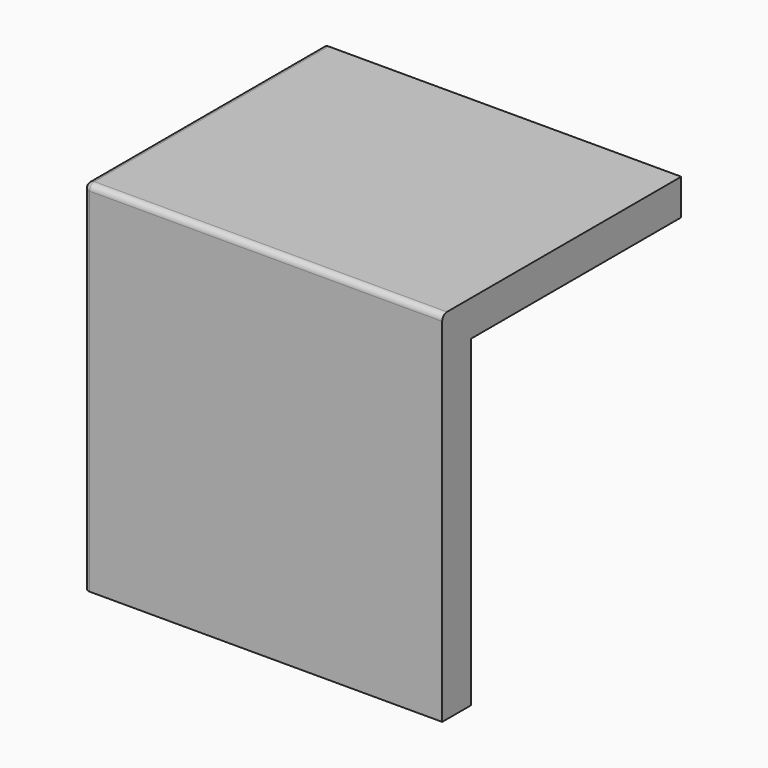
from build123d import *

# Parameters (mm, degrees)
F1_DEPTH = 2.5
F2_DEPTH = 57.5
F3_DEPTH = 3.5
F4_R     = 1


with BuildPart() as f1:
    # F0 (on Top) → F1 (new body)
    with BuildSketch(Plane.XY):
        Polygon((26.914498, 24.649286), (-24.585502, 24.649286), (-28.085502, 24.649286), (-28.085502, -20.350714), (26.914498, -20.350714), (26.914498, -16.850714), align=None)
        Polygon((-24.585502, 27.149286), (-30.585502, 27.149286), (-30.585502, -22.850714), (29.414498, -22.850714), (29.414498, -16.850714), (26.914498, -16.850714), (26.914498, -20.350714), (-28.085502, -20.350714), (-28.085502, 24.649286), (-24.585502, 24.649286), align=None)
        Polygon((29.414498, 27.149286), (-24.585502, 27.149286), (-24.585502, 24.649286), (26.914498, 24.649286), (26.914498, -16.850714), (29.414498, -16.850714), align=None)
    extrude(amount=F1_DEPTH)

    # F0 (on Top) → F2 (join)
    with BuildSketch(Plane.XY):
        Polygon((-24.585502, 27.149286), (-30.585502, 27.149286), (-30.585502, -22.850714), (29.414498, -22.850714), (29.414498, -16.850714), (26.914498, -16.850714), (26.914498, -20.350714), (-28.085502, -20.350714), (-28.085502, 24.649286), (-24.585502, 24.649286), align=None)
    extrude(amount=-F2_DEPTH)

    # F0 (on Top) → F3 (join)
    with BuildSketch(Plane.XY):
        Polygon((29.414498, 27.149286), (-24.585502, 27.149286), (-24.585502, 24.649286), (26.914498, 24.649286), (26.914498, -16.850714), (29.414498, -16.850714), align=None)
    extrude(amount=-F3_DEPTH)

    # F4
    f4_edges = [f1.edges().sort_by_distance(p)[0] for p in [
        (-30.585502, 2.149286, 2.5),
        (-0.585502, -22.850714, 2.5),
        (-30.585502, -22.850714, -27.5),
        (-28.085502, -20.350714, -28.75),
        (26.914498, -20.350714, -28.75),
        (-28.085502, 24.649286, -28.75),
    ]]
    fillet(f4_edges, radius=F4_R)


solid = f1.part
